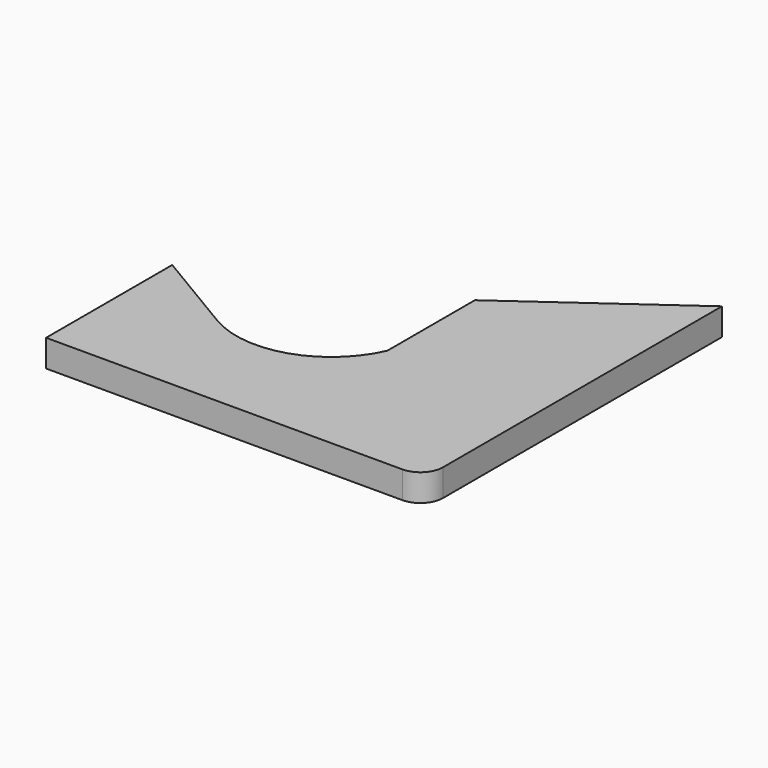
from build123d import *

# Parameters (mm, degrees)
F1_DEPTH = 6
F2_R     = 5


with BuildPart() as f1:
    # F0 (on Top) → F1 (new body)
    with BuildSketch(Plane.XY):
        with BuildLine():
            Line((-34.193421, -3.177857), (-34.193421, -38.081145))
            Line((-34.193421, -38.081145), (49.664326, -38.081145))
            Line((49.664326, -38.081145), (49.664326, 44.077953))
            Line((49.664326, 44.077953), (14.891593, 19.191585))
            Line((14.891593, 19.191585), (14.891593, -5.012962))
            ThreePointArc((14.891593, -5.012962), (2.039452, -16.536103), (-15.108407, -14.558417))
            Line((-15.108407, -14.558417), (-34.193421, -3.177857))
        make_face()
    extrude(amount=F1_DEPTH)

    # F2
    f2_edges = [f1.edges().sort_by_distance(p)[0] for p in [
        (49.664326, -38.081145, 3),
    ]]
    fillet(f2_edges, radius=F2_R)


solid = f1.part
